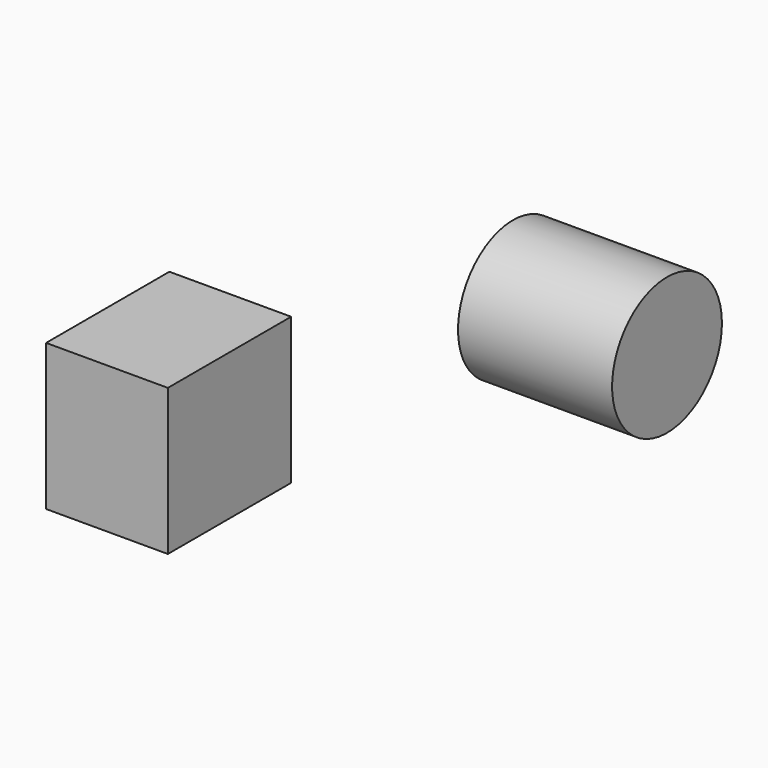
from build123d import *

# Parameters (mm, degrees)
F0_W     = 100.364189
F0_H     = 120.5411
F1_DEPTH = 127
F2_R     = 56.543955
F3_DEPTH = 127


with BuildPart() as f1:
    # F0 (on Front) → F1 (new body)
    with BuildSketch(Plane.XZ):
        with Locations((-88.180059, -7.075941)):
            Rectangle(F0_W, F0_H)
    extrude(amount=F1_DEPTH)


with BuildPart() as f3:
    # F2 (on Right) → F3 (new body)
    with BuildSketch(Plane.YZ):
        with Locations((180.989608, 5.532656)):
            Circle(F2_R)
    extrude(amount=F3_DEPTH)


solid = Compound([f1.part, f3.part])
